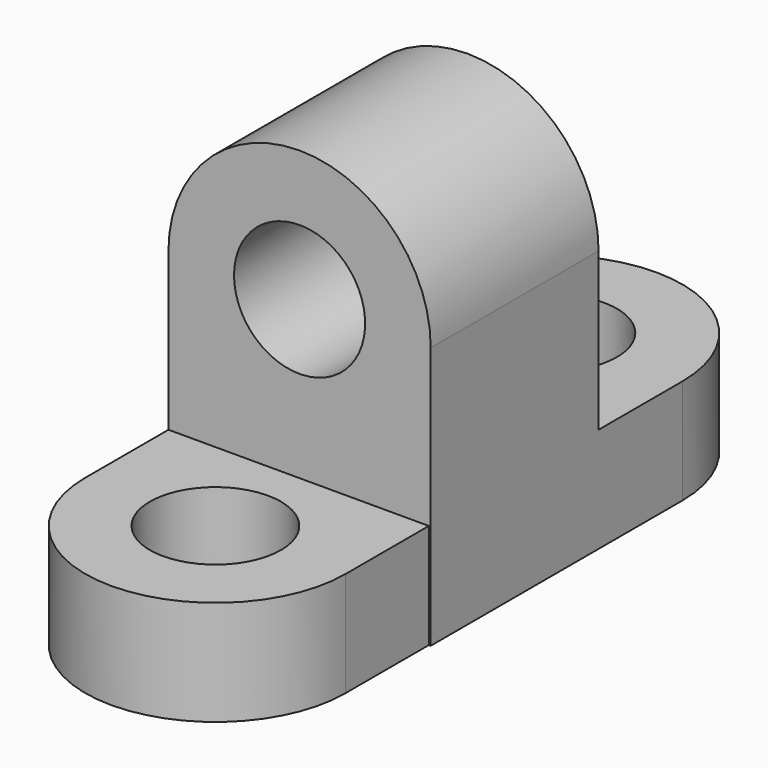
from build123d import *

# Parameters (mm, degrees)
F1_DEPTH = 40
F3_DEPTH = 20
F5_DEPTH = 20


with BuildPart() as f1:
    # F0 (on Front) → F1 (new body)
    with BuildSketch(Plane.XZ):
        with BuildLine():
            Line((0, 50), (0, 0))
            Line((0, 0), (50, 0))
            Line((50, 0), (50, 50))
            Line((50, 50), (37.5, 50))
            ThreePointArc((37.5, 50), (25, 37.5), (12.5, 50))
            Line((12.5, 50), (0, 50))
        make_face()
        with BuildLine():
            ThreePointArc((50, 50), (25, 75), (0, 50))
            Line((0, 50), (12.5, 50))
            ThreePointArc((12.5, 50), (25, 62.5), (37.5, 50))
            Line((37.5, 50), (50, 50))
        make_face()
    extrude(amount=F1_DEPTH)

    # F2 (on Top) → F3 (join)
    with BuildSketch(Plane.XY):
        with BuildLine():
            Line((0, 20), (0, 0))
            Line((0, 0), (50, 0))
            Line((50, 0), (50, 20))
            Line((50, 20), (37.5, 20))
            ThreePointArc((37.5, 20), (25, 7.5), (12.5, 20))
            Line((12.5, 20), (0, 20))
        make_face()
        with BuildLine():
            ThreePointArc((50, 20), (25, 45), (0, 20))
            Line((0, 20), (12.5, 20))
            ThreePointArc((12.5, 20), (25, 32.5), (37.5, 20))
            Line((37.5, 20), (50, 20))
        make_face()
    extrude(amount=F3_DEPTH)

    # F4 (on Top) → F5 (join)
    with BuildSketch(Plane.XY):
        with BuildLine():
            Line((49.637856, -39.829515), (0, -39.829515))
            Line((0, -39.829515), (0, -59.829515))
            Line((0, -59.829515), (12.318928, -59.829515))
            ThreePointArc((12.318928, -59.829515), (24.818928, -47.329515), (37.318928, -59.829515))
            Line((37.318928, -59.829515), (49.637856, -59.829515))
            Line((49.637856, -59.829515), (49.637856, -39.829515))
        make_face()
        with BuildLine():
            Line((12.318928, -59.829515), (0, -59.829515))
            ThreePointArc((0, -59.829515), (24.818928, -84.648443), (49.637856, -59.829515))
            Line((49.637856, -59.829515), (37.318928, -59.829515))
            ThreePointArc((37.318928, -59.829515), (24.818928, -72.329515), (12.318928, -59.829515))
        make_face()
    extrude(amount=F5_DEPTH)


solid = f1.part
